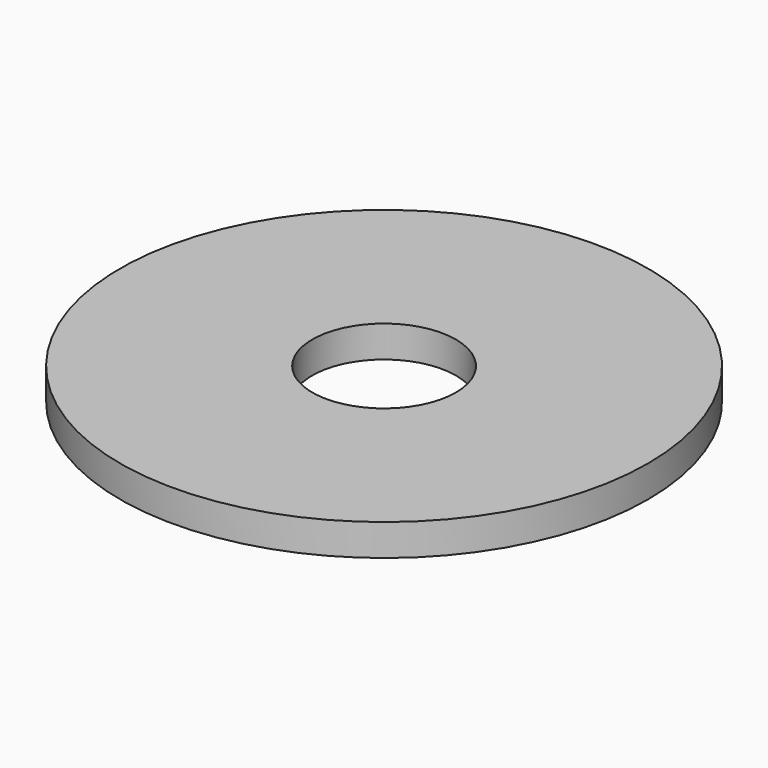
from build123d import *

# Parameters (mm, degrees)
SKETCH_R   = 12.5
SKETCH_R_2 = 3.4
PAD_DEPTH  = 1.5


with BuildPart() as part:
    # Sketch → Pad (new body)
    with BuildSketch(Plane.XY):
        Circle(SKETCH_R)
        Circle(SKETCH_R_2, mode=Mode.SUBTRACT)
    extrude(amount=PAD_DEPTH)


solid = part.part
